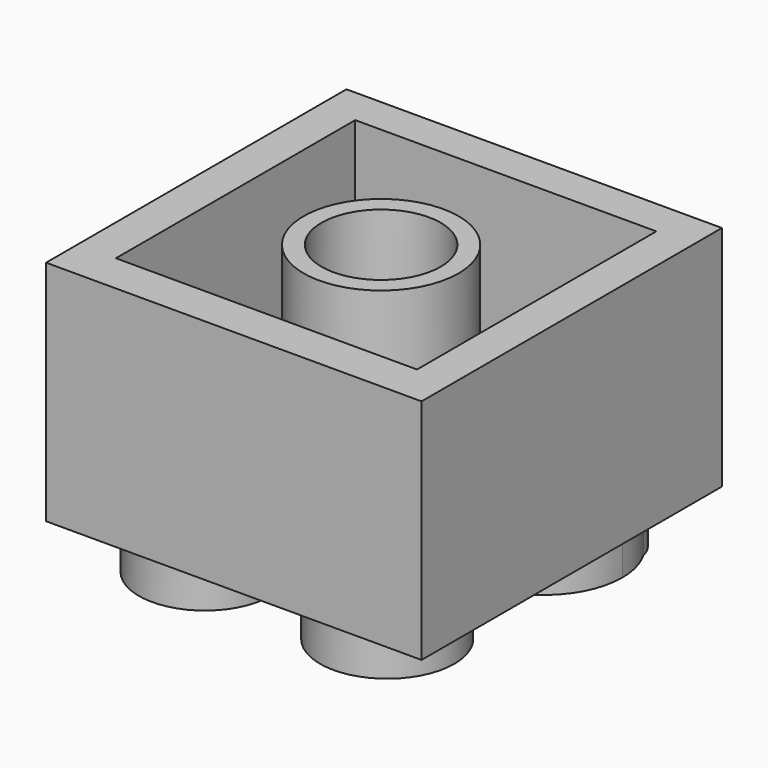
from build123d import *

# Parameters (mm, degrees)
F0_W     = 15.75
F0_H     = 15.75
F1_DEPTH = 9.55
F2_R     = 2.7655447365
F2_R_2   = 2.8203135122
F3_DEPTH = 2
F4_W     = 12.6326526515
F4_H     = 12.5484350137
F5_DEPTH = 10
F6_W     = 12.4461371452
F6_H     = 12.6247890294
F7_DEPTH = 2.45
F8_R     = 3.25
F8_R_2   = 2.5
F9_DEPTH = 9.58


with BuildPart() as f1:
    # F0 (on Top) → F1 (new body)
    with BuildSketch(Plane.XY):
        with Locations((-2.2300542332, 2.0526186563)):
            Rectangle(F0_W, F0_H)
    extrude(amount=F1_DEPTH)

    # F2 (on Top) → F3 (join)
    with BuildSketch(Plane.XY):
        with BuildLine():
            ThreePointArc((3.3434472608, 8.5381525556), (1.8563335854, 6.422431468), (4.3116325752, 7.2343980162))
            ThreePointArc((4.3116325752, 7.2343980162), (4.3045378825, 7.37322994), (4.2833277224, 7.5106154081))
            ThreePointArc((4.2833277224, 7.5106154081), (3.8683009231, 8.0746128825), (3.3434472608, 8.5381525556))
        make_face()
        with BuildLine():
            ThreePointArc((4.2833277224, 7.5106154081), (4.3045378825, 7.37322994), (4.3116325752, 7.2343980162))
            ThreePointArc((4.3116325752, 7.2343980162), (1.8563335854, 6.422431468), (3.3434472608, 8.5381525556))
            ThreePointArc((3.3434472608, 8.5381525556), (-1.4893392185, 4.3388645246), (4.7318274849, 5.8511244133))
            ThreePointArc((4.7318274849, 5.8511244133), (4.6177266052, 6.7106391599), (4.2833277224, 7.5106154081))
        make_face()
        with BuildLine():
            ThreePointArc((3.3434472608, 8.5381525556), (3.8683009231, 8.0746128825), (4.2833277224, 7.5106154081))
            ThreePointArc((4.2833277224, 7.5106154081), (3.95464834, 8.1535942121), (3.3434472608, 8.5381525556))
        make_face()
        with BuildLine():
            ThreePointArc((-9.0934361556, 7.0864772246), (-6.8414931871, 2.7791078741), (-3.0748776986, 5.8511244133))
            ThreePointArc((-3.0748776986, 5.8511244133), (-4.7421559795, 8.6219651826), (-7.9711833661, 8.4465868163))
            ThreePointArc((-7.9711833661, 8.4465868163), (-8.6298719943, 7.8470325105), (-9.0934361556, 7.0864772246))
        make_face()
        with Locations((-6.210939493, -2.3638040293)):
            Circle(F2_R)
        with Locations((1.4374417951, -2.3638040293)):
            Circle(F2_R_2)
    extrude(amount=-F3_DEPTH)

    # F4 (on Top) → F5 (cut)
    with BuildSketch(Plane.XY):
        with Locations((-2.1983480547, 2.12413189)):
            Rectangle(F4_W, F4_H)
    extrude(amount=F5_DEPTH, mode=Mode.SUBTRACT)

    # F6 (on Top) → F7 (join)
    with BuildSketch(Plane.XY):
        with Locations((-2.1759783849, 2.0920559764)):
            Rectangle(F6_W, F6_H)
    extrude(amount=F7_DEPTH)

    # F8 (on Top) → F9 (join)
    with BuildSketch(Plane.XY):
        with Locations((-2.2931566928, 1.9800718874)):
            Circle(F8_R)
        with Locations((-2.2931566928, 1.9800718874)):
            Circle(F8_R_2, mode=Mode.SUBTRACT)
    extrude(amount=F9_DEPTH)


solid = f1.part
